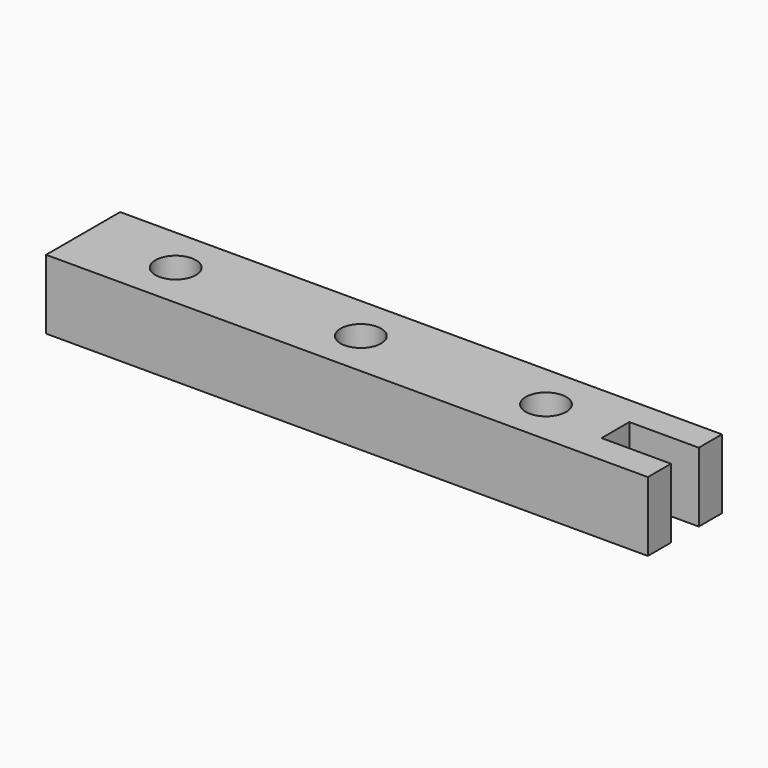
from build123d import *

# Parameters (mm, degrees)
F0_W     = 165.1
F0_H     = 25.4
F1_DEPTH = 19.05
F2_W     = 19.05
F2_H     = 9.525
F3_DEPTH = 19.051
F4_R     = 5.55625
F5_DEPTH = 19.051


with BuildPart() as f1:
    # F0 (on Top) → F1 (new body)
    with BuildSketch(Plane.XY):
        Rectangle(F0_W, F0_H)
    extrude(amount=F1_DEPTH)

    # F2 (on face) → F3 (cut, through all)
    with BuildSketch(Plane.XY.offset(19.05)):
        with Locations((73.025, 0)):
            Rectangle(F2_W, F2_H)
    extrude(amount=-F3_DEPTH, mode=Mode.SUBTRACT)

    # F4 (on face) → F5 (cut, through all)
    with BuildSketch(Plane.XY.offset(19.05)):
        with Locations((-57.15, 0)):
            Circle(F4_R)
        with Locations((-6.35, 0)):
            Circle(F4_R)
        with Locations((44.45, 0)):
            Circle(F4_R)
    extrude(amount=-F5_DEPTH, mode=Mode.SUBTRACT)


solid = f1.part
